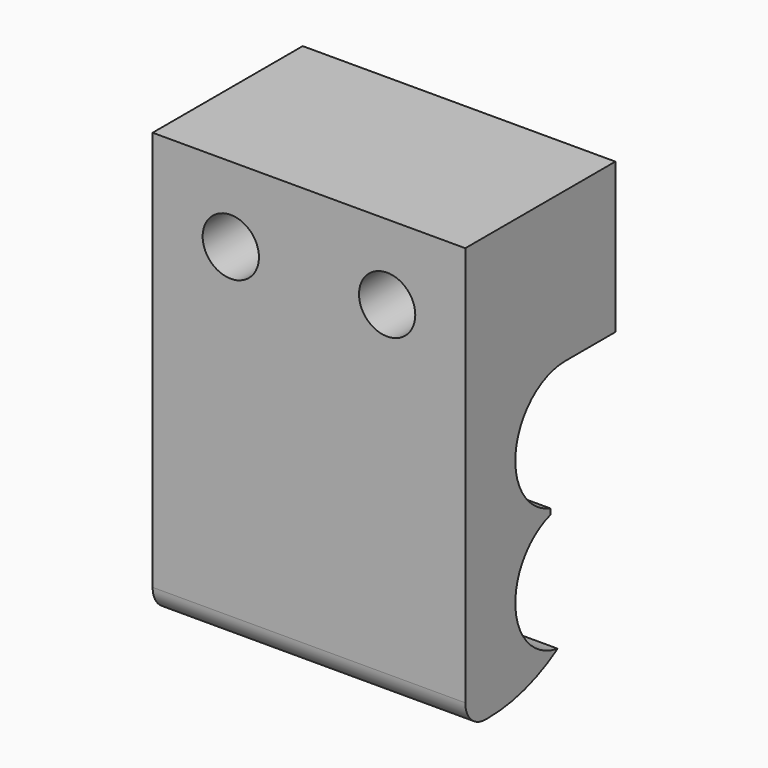
from build123d import *

# Parameters (mm, degrees)
F1_DEPTH = 25
F2_R     = 2.25
F3_DEPTH = 28.7
F4_R     = 4.25
F4_R_2   = 2.25
F4_W     = 25
F4_H     = 32
F5_DEPTH = 2


with BuildPart() as f1:
    # F0 (on Right) → F1 (new body)
    with BuildSketch(Plane.YZ):
        with BuildLine():
            ThreePointArc((0, 2), (0.585786, 0.585786), (2, 0))
            Line((2, 0), (2.3, 0))
            ThreePointArc((2.3, 0), (5.916074, 0.525682), (9.232793, 2.059211))
            ThreePointArc((9.232793, 2.059211), (5.014177, 6.623749), (8.5, 11.769696))
            Line((8.5, 11.769696), (8.5, 12.230304))
            ThreePointArc((8.5, 12.230304), (5.057911, 17.758788), (10, 22))
            Line((10, 22), (15, 22))
            Line((15, 22), (15, 34))
            Line((15, 34), (0, 34))
            Line((0, 34), (0, 2))
        make_face()
    extrude(amount=F1_DEPTH)

    # F2 (on face) → F3 (cut)
    with BuildSketch(Plane.XZ):
        with Locations((6.25, 28)):
            Circle(F2_R)
        with Locations((18.75, 28)):
            Circle(F2_R)
    extrude(amount=-F3_DEPTH, mode=Mode.SUBTRACT)

    # F4 (on face) → F5 (join)
    with BuildSketch(Plane.XZ):
        with Locations((6.25, 28)):
            Circle(F4_R)
        with Locations((6.25, 28)):
            Circle(F4_R_2, mode=Mode.SUBTRACT)
        with Locations((12.5, 18)):
            Rectangle(F4_W, F4_H)
        with Locations((6.25, 28)):
            Circle(F4_R, mode=Mode.SUBTRACT)
        with Locations((18.75, 28)):
            Circle(F4_R, mode=Mode.SUBTRACT)
    extrude(amount=-F5_DEPTH)


solid = f1.part
